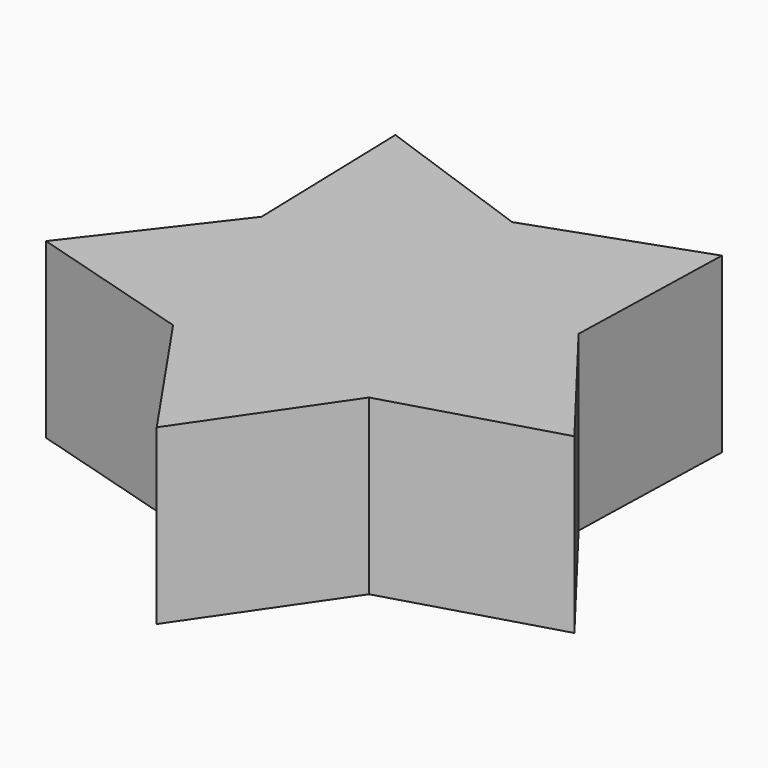
from build123d import *

# Parameters (mm, degrees)
F1_DEPTH = 39.5986


with BuildPart() as f1:
    # F0 (on Top) → F1 (new body)
    with BuildSketch(Plane.XY):
        Polygon((36.235253, 11.773547), (37.324364, 51.372579), (0, 38.1), (-37.324364, 51.372579), (-36.235253, 11.773547), (0, 0), (22.394618, -30.823547), (60.392089, -19.622579), align=None)
        Polygon((-22.394618, -30.823547), (0, -63.5), (22.394618, -30.823547), (0, 0), (-36.235253, 11.773547), (-60.392089, -19.622579), align=None)
    extrude(amount=-F1_DEPTH)


solid = f1.part
